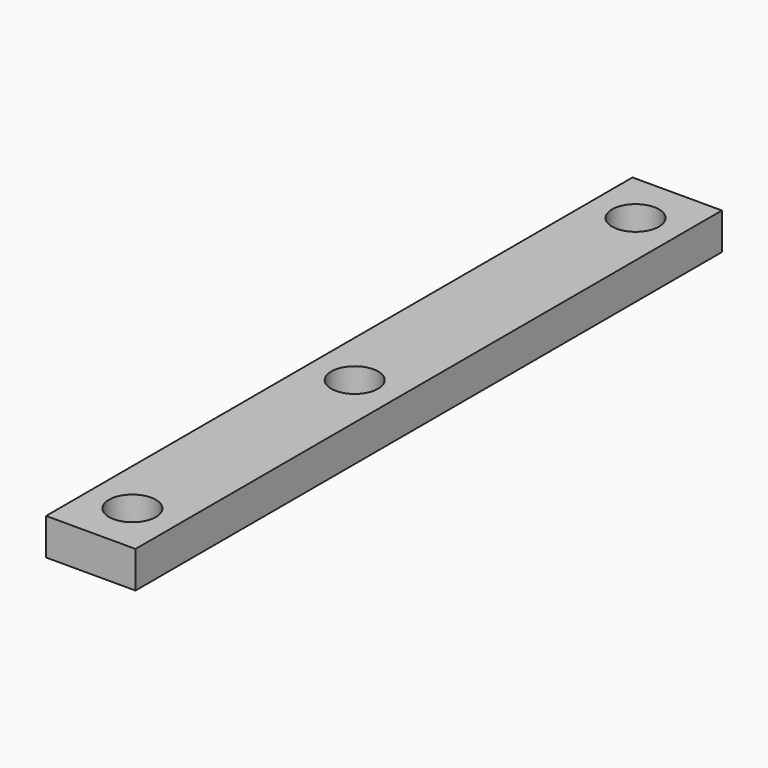
from build123d import *

# Parameters (mm, degrees)
F0_W     = 12.2
F0_H     = 100
F1_DEPTH = 5
F2_R     = 3.2
F3_DEPTH = 6


with BuildPart() as f1:
    # F0 (on Top) → F1 (new body)
    with BuildSketch(Plane.XY):
        with Locations((22.702857, -2.111525)):
            Rectangle(F0_W, F0_H)
    extrude(amount=F1_DEPTH)

    # F2 (on face) → F3 (cut)
    with BuildSketch(Plane.XY.offset(5)):
        with Locations((22.702857, -45.011525)):
            Circle(F2_R)
        with Locations((22.702857, -7.111525)):
            Circle(F2_R)
        with Locations((22.702857, 40.788475)):
            Circle(F2_R)
    extrude(amount=-F3_DEPTH, mode=Mode.SUBTRACT)


solid = f1.part
